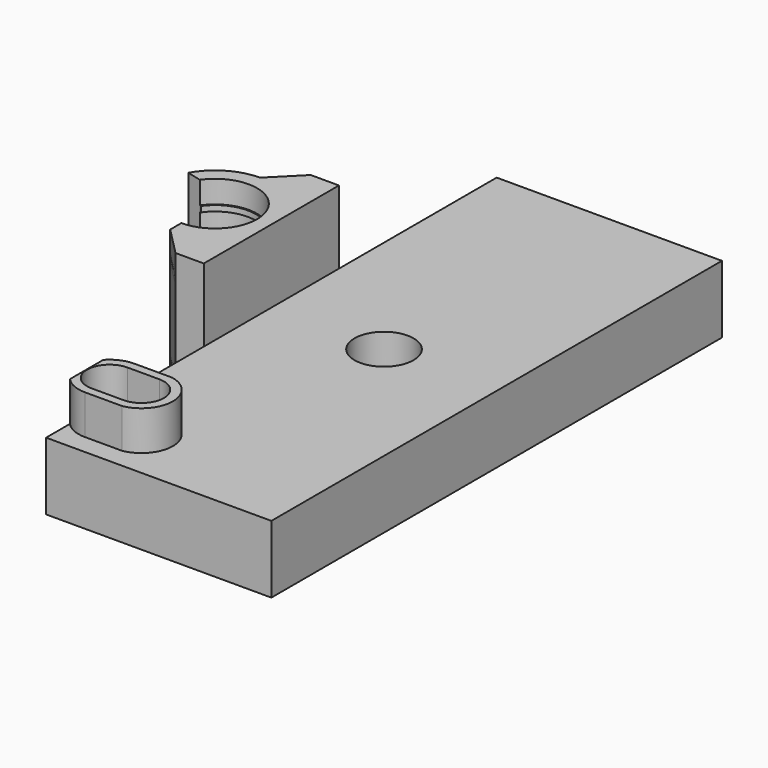
from build123d import *

# Parameters (mm, degrees)
PAD002_DEPTH    = 1
PAD003_DEPTH    = 1
PAD001_DEPTH    = 25
SKETCH_R        = 5.25
PAD_DEPTH       = 12
SKETCH005_R     = 1
POCKET_DEPTH    = 15
POCKET001_DEPTH = 25
SKETCH012_W     = 17.024108
SKETCH012_H     = 13.5
POCKET002_DEPTH = 5
POCKET003_DEPTH = 12
SKETCH010_R     = 1.1
POCKET004_DEPTH = 12
SKETCH016_R     = 5.25
PAD004_DEPTH    = 12
PAD006_DEPTH    = 7


with BuildPart() as pad002:
    # Sketch014 → Pad002 (new body)
    with BuildSketch(Plane.XY.offset(32)):
        with BuildLine():
            Line((-5.8767, 4.245809), (-8.700179, 4.930201))
            ThreePointArc((0, 10), (-5.034779, 8.640081), (-8.700179, 4.930201))
            Line((0, 10), (4.98503, 15))
            Line((10, 15), (4.98503, 15))
            Line((10, -15), (10, 15))
            Line((4.98503, -15), (10, -15))
            Line((0, -10), (4.98503, -15))
            Line((0, -7.25), (0, -10))
            ThreePointArc((0, -7.25), (6.455409, 3.300029), (-5.8767, 4.245809))
        make_face()
    extrude(amount=PAD002_DEPTH)


with BuildPart() as pad003:
    # Sketch015 → Pad003 (new body)
    with BuildSketch(Plane.XY.offset(48)):
        with BuildLine():
            Line((-5.8767, 4.245809), (-8.700179, 4.930201))
            ThreePointArc((0, 10), (-5.034779, 8.640081), (-8.700179, 4.930201))
            Line((0, 10), (4.98503, 15))
            Line((10, 15), (4.98503, 15))
            Line((10, -15), (10, 15))
            Line((4.98503, -15), (10, -15))
            Line((0, -10), (4.98503, -15))
            Line((0, -7.25), (0, -10))
            ThreePointArc((0, -7.25), (6.455409, 3.300029), (-5.8767, 4.245809))
        make_face()
    extrude(amount=PAD003_DEPTH)


with BuildPart() as obj1:
    # Sketch013 → Pad001 (new body)
    with BuildSketch(Plane.XY.offset(28)):
        with BuildLine():
            Line((-6.124049, 4.274369), (-8.700179, 4.930201))
            ThreePointArc((0, 10), (-5.034779, 8.640081), (-8.700179, 4.930201))
            Line((0, 10), (4.98503, 15))
            Line((10, 15), (4.98503, 15))
            Line((10, -15), (10, 15))
            Line((4.98503, -15), (10, -15))
            Line((0, -9.952784), (4.98503, -15))
            Line((0, -7.468213), (0, -9.952784))
            ThreePointArc((0, -7.468213), (6.621786, 3.453426), (-6.124049, 4.274369))
        make_face()
    extrude(amount=PAD001_DEPTH)

    # Fusion: union Pad002, Pad003
    add(pad002.part)
    add(pad003.part)


with BuildPart() as obj1_1:
    # Fusion placement: moved
    add(obj1.part.moved(Location((0, 0, -28))))


with BuildPart() as pocket004:
    # Sketch → Pad (new body)
    with BuildSketch(Plane.XY):
        Polygon((50, -50), (50, 50), (10, 50), (10, 20), (10, -13.385166), (10, -50), align=None)
        with Locations((30, 0)):
            Circle(SKETCH_R, mode=Mode.SUBTRACT)
    extrude(amount=PAD_DEPTH)

    # Sketch005 → Pocket (cut)
    with BuildSketch(Plane.XY.offset(12)):
        with Locations((29.99715, 8.25)):
            Circle(SKETCH005_R)
        with Locations((21.74715, 0)):
            Circle(SKETCH005_R)
        with Locations((38.24715, 0)):
            Circle(SKETCH005_R)
        with Locations((29.99715, -8.25)):
            Circle(SKETCH005_R)
    extrude(amount=-POCKET_DEPTH, mode=Mode.SUBTRACT)

    # Sketch001 → Pocket001 (cut)
    with BuildSketch(Plane.YZ.offset(50)):
        with BuildLine():
            Line((-33.511602, 1.266257), (-33.511602, 0))
            Line((-33.511602, 0), (-36.511602, 0))
            Line((-36.511602, 0), (-36.511602, 1.275379))
            ThreePointArc((-33.511602, 1.266257), (-34.987533, 9.186536), (-36.511602, 1.275379))
        make_face()
        with BuildLine():
            Line((36.5, 1.184243), (36.5, 0))
            Line((36.5, 0), (33.5, 0))
            Line((33.5, 0), (33.5, 1.184243))
            ThreePointArc((36.5, 1.184243), (35, 9.1), (33.5, 1.184243))
        make_face()
    extrude(amount=-POCKET001_DEPTH, mode=Mode.SUBTRACT)

    # Sketch012 → Pocket002 (cut)
    with BuildSketch(Plane(origin=(0, 0, 0), x_dir=(1, 0, 0), z_dir=(0, 0, -1))):
        with Locations((18.494112, 41)):
            Rectangle(SKETCH012_W, SKETCH012_H)
    extrude(amount=-POCKET002_DEPTH, mode=Mode.SUBTRACT)

    # Sketch011 → Pocket003 (cut)
    with BuildSketch(Plane.XY.offset(12)):
        with BuildLine():
            Line((14.415352, -44.982501), (20.19626, -44.982501))
            ThreePointArc((20.19626, -44.982501), (23.939949, -40.998793), (20.212368, -37.000008))
            Line((14.049409, -37.000008), (20.212368, -37.000008))
            ThreePointArc((14.049409, -37.000008), (10.045804, -41.18318), (14.415352, -44.982501))
        make_face()
    extrude(amount=-POCKET003_DEPTH, mode=Mode.SUBTRACT)

    # Sketch010 → Pocket004 (cut)
    with BuildSketch(Plane.XY.offset(12)):
        with Locations((43, 19.111106)):
            Circle(SKETCH010_R)
        with Locations((43, 10.111106)):
            Circle(SKETCH010_R)
    extrude(amount=-POCKET004_DEPTH, mode=Mode.SUBTRACT)


with BuildPart() as base010:
    # Sketch016 → Pad004 (new body)
    with BuildSketch(Plane.XY):
        Polygon((50, -50), (50, 50), (10, 50), (10, 20), (10, -13.385166), (10, -50), align=None)
        with Locations((30, 0)):
            Circle(SKETCH016_R, mode=Mode.SUBTRACT)
    extrude(amount=PAD004_DEPTH)


with BuildPart() as pad006:
    # Sketch022 → Pad006 (new body)
    with BuildSketch(Plane.XY.offset(12)):
        with BuildLine():
            ThreePointArc((20.72223, -46.5), (25.317162, -41), (20.72223, -35.5))
            Line((20.72223, -35.5), (14.078027, -35.5))
            ThreePointArc((14.078027, -35.5), (11.847296, -35.97269), (10, -37.309512))
            Line((10, -37.309512), (10, -44.690488))
            ThreePointArc((10, -44.690488), (11.847296, -46.02731), (14.078026, -46.5))
            Line((20.72223, -46.5), (14.078026, -46.5))
        make_face()
        with BuildLine():
            ThreePointArc((19.728026, -45), (23.728026, -41), (19.728026, -37))
            Line((14.078026, -37), (19.728026, -37))
            ThreePointArc((14.078026, -37), (10.078026, -41), (14.078026, -45))
            Line((19.728026, -45), (14.078026, -45))
        make_face(mode=Mode.SUBTRACT)
    extrude(amount=PAD006_DEPTH)


solid = Compound([obj1_1.part, pocket004.part, base010.part, pad006.part])
